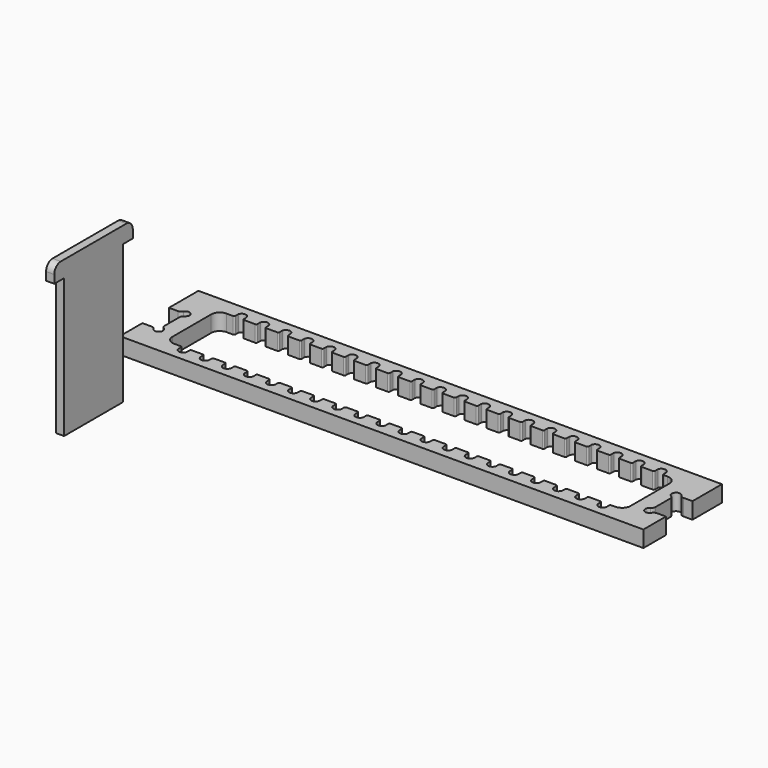
from build123d import *

# Parameters (mm, degrees)
F0_W      = 406.4
F0_H      = 76.2
F1_DEPTH  = 12.7
F3_DEPTH  = 25.4
F4_W      = 355.6
F4_H      = 50.8
F5_DEPTH  = 25.4
F6_R      = 6.604
F8_DEPTH  = 25.4
F9_W      = 6.35
F9_H      = 57.15
F10_DEPTH = 114.3
F11_W     = 76.2
F11_H     = 12.7
F12_DEPTH = 6.35
F13_R     = 6.35


with BuildPart() as f1:
    # F0 (on Top) → F1 (new body)
    with BuildSketch(Plane.XY):
        with Locations((203.2, 38.1)):
            Rectangle(F0_W, F0_H)
    extrude(amount=F1_DEPTH)

    # F2 (on face) → F3 (cut)
    with BuildSketch(Plane.XY.offset(12.7)):
        with BuildLine():
            Line((7.0545678642, 47.625), (0, 47.625))
            Line((0, 47.625), (0, 21.844))
            Line((0, 21.844), (7.0545678642, 21.844))
            ThreePointArc((7.0545678642, 21.844), (8.6575560358, 21.4096302052), (9.8219365582, 20.225372549))
            ThreePointArc((9.8219365582, 20.225372549), (15.0348665915, 19.5091334085), (14.318627451, 24.7220634418))
            ThreePointArc((14.318627451, 24.7220634418), (13.1343697948, 25.8864439642), (12.7, 27.4894321358))
            Line((12.7, 27.4894321358), (12.7, 41.9795678642))
            ThreePointArc((12.7, 41.9795678642), (13.1343697948, 43.5825560358), (14.318627451, 44.7469365582))
            ThreePointArc((14.318627451, 44.7469365582), (15.0348665915, 49.9598665915), (9.8219365582, 49.243627451))
            ThreePointArc((9.8219365582, 49.243627451), (8.6575560358, 48.0593697948), (7.0545678642, 47.625))
        make_face()
        with BuildLine():
            Line((393.7, 41.9795678642), (393.7, 27.4894321358))
            ThreePointArc((393.7, 27.4894321358), (393.2656302052, 25.8864439642), (392.081372549, 24.7220634418))
            ThreePointArc((392.081372549, 24.7220634418), (391.3651334085, 19.5091334085), (396.5780634418, 20.225372549))
            ThreePointArc((396.5780634418, 20.225372549), (397.7424439642, 21.4096302052), (399.3454321358, 21.844))
            Line((399.3454321358, 21.844), (406.4, 21.844))
            Line((406.4, 21.844), (406.4, 47.625))
            Line((406.4, 47.625), (399.3454321358, 47.625))
            ThreePointArc((399.3454321358, 47.625), (397.7424439642, 48.0593697948), (396.5780634418, 49.243627451))
            ThreePointArc((396.5780634418, 49.243627451), (391.3651334085, 49.9598665915), (392.081372549, 44.7469365582))
            ThreePointArc((392.081372549, 44.7469365582), (393.2656302052, 43.5825560358), (393.7, 41.9795678642))
        make_face()
    extrude(amount=-F3_DEPTH, mode=Mode.SUBTRACT)

    # F4 (on face) → F5 (cut)
    with BuildSketch(Plane.XY.offset(12.7)):
        with Locations((203.2, 38.1)):
            Rectangle(F4_W, F4_H)
    extrude(amount=-F5_DEPTH, mode=Mode.SUBTRACT)

    # F6
    f6_edges = [f1.edges().sort_by_distance(p)[0] for p in [
        (25.4, 63.5, 6.35),
        (381, 63.5, 6.35),
        (381, 12.7, 6.35),
        (25.4, 12.7, 6.35),
    ]]
    fillet(f6_edges, radius=F6_R)

    # F7 (on face) → F8 (cut)
    with BuildSketch(Plane.XY.offset(12.7)):
        with BuildLine():
            ThreePointArc((37.084, 12.7), (37.8024204897, 12.4024204897), (38.1, 11.684))
            Line((38.1, 11.684), (38.1, 8.89))
            ThreePointArc((38.1, 8.89), (41.7611020196, 6.3750480091), (44.704, 9.7019088405))
            Line((44.704, 9.7019088405), (44.704, 11.684))
            ThreePointArc((44.704, 11.684), (45.0015795103, 12.4024204897), (45.72, 12.7))
            Line((45.72, 12.7), (54.229, 12.7))
            Line((54.229, 12.7), (54.229, 16.938097775))
            Line((54.229, 16.938097775), (37.084, 16.938097775))
            Line((37.084, 16.938097775), (37.084, 12.7))
        make_face()
        with BuildLine():
            Line((71.374, 16.938097775), (54.229, 16.938097775))
            Line((54.229, 16.938097775), (54.229, 12.7))
            ThreePointArc((54.229, 12.7), (54.9474204897, 12.4024204897), (55.245, 11.684))
            Line((55.245, 11.684), (55.245, 8.89))
            ThreePointArc((55.245, 8.89), (58.9061020196, 6.3750480091), (61.849, 9.7019088405))
            Line((61.849, 9.7019088405), (61.849, 11.684))
            ThreePointArc((61.849, 11.684), (62.1465795103, 12.4024204897), (62.865, 12.7))
            Line((62.865, 12.7), (71.374, 12.7))
            Line((71.374, 12.7), (71.374, 16.938097775))
        make_face()
        with BuildLine():
            Line((88.519, 16.938097775), (71.374, 16.938097775))
            Line((71.374, 16.938097775), (71.374, 12.7))
            ThreePointArc((71.374, 12.7), (72.0924204897, 12.4024204897), (72.39, 11.684))
            Line((72.39, 11.684), (72.39, 8.89))
            ThreePointArc((72.39, 8.89), (76.0511020196, 6.3750480091), (78.994, 9.7019088405))
            Line((78.994, 9.7019088405), (78.994, 11.684))
            ThreePointArc((78.994, 11.684), (79.2915795103, 12.4024204897), (80.01, 12.7))
            Line((80.01, 12.7), (88.519, 12.7))
            Line((88.519, 12.7), (88.519, 16.938097775))
        make_face()
        with BuildLine():
            Line((105.664, 16.938097775), (88.519, 16.938097775))
            Line((88.519, 16.938097775), (88.519, 12.7))
            ThreePointArc((88.519, 12.7), (89.2374204897, 12.4024204897), (89.535, 11.684))
            Line((89.535, 11.684), (89.535, 8.89))
            ThreePointArc((89.535, 8.89), (93.1961020196, 6.3750480091), (96.139, 9.7019088405))
            Line((96.139, 9.7019088405), (96.139, 11.684))
            ThreePointArc((96.139, 11.684), (96.4365795103, 12.4024204897), (97.155, 12.7))
            Line((97.155, 12.7), (105.664, 12.7))
            Line((105.664, 12.7), (105.664, 16.938097775))
        make_face()
        with BuildLine():
            Line((122.809, 16.938097775), (105.664, 16.938097775))
            Line((105.664, 16.938097775), (105.664, 12.7))
            ThreePointArc((105.664, 12.7), (106.3824204897, 12.4024204897), (106.68, 11.684))
            Line((106.68, 11.684), (106.68, 8.89))
            ThreePointArc((106.68, 8.89), (110.3411020196, 6.3750480091), (113.284, 9.7019088405))
            Line((113.284, 9.7019088405), (113.284, 11.684))
            ThreePointArc((113.284, 11.684), (113.5815795103, 12.4024204897), (114.3, 12.7))
            Line((114.3, 12.7), (122.809, 12.7))
            Line((122.809, 12.7), (122.809, 16.938097775))
        make_face()
        with BuildLine():
            Line((139.954, 16.938097775), (122.809, 16.938097775))
            Line((122.809, 16.938097775), (122.809, 12.7))
            ThreePointArc((122.809, 12.7), (123.5274204897, 12.4024204897), (123.825, 11.684))
            Line((123.825, 11.684), (123.825, 8.89))
            ThreePointArc((123.825, 8.89), (127.4861020196, 6.3750480091), (130.429, 9.7019088405))
            Line((130.429, 9.7019088405), (130.429, 11.684))
            ThreePointArc((130.429, 11.684), (130.7265795103, 12.4024204897), (131.445, 12.7))
            Line((131.445, 12.7), (139.954, 12.7))
            Line((139.954, 12.7), (139.954, 16.938097775))
        make_face()
        with BuildLine():
            Line((157.099, 16.938097775), (139.954, 16.938097775))
            Line((139.954, 16.938097775), (139.954, 12.7))
            ThreePointArc((139.954, 12.7), (140.6724204897, 12.4024204897), (140.97, 11.684))
            Line((140.97, 11.684), (140.97, 8.89))
            ThreePointArc((140.97, 8.89), (144.6311020196, 6.3750480091), (147.574, 9.7019088405))
            Line((147.574, 9.7019088405), (147.574, 11.684))
            ThreePointArc((147.574, 11.684), (147.8715795103, 12.4024204897), (148.59, 12.7))
            Line((148.59, 12.7), (157.099, 12.7))
            Line((157.099, 12.7), (157.099, 16.938097775))
        make_face()
        with BuildLine():
            Line((174.244, 16.938097775), (157.099, 16.938097775))
            Line((157.099, 16.938097775), (157.099, 12.7))
            ThreePointArc((157.099, 12.7), (157.8174204897, 12.4024204897), (158.115, 11.684))
            Line((158.115, 11.684), (158.115, 8.89))
            ThreePointArc((158.115, 8.89), (161.7761020196, 6.3750480091), (164.719, 9.7019088405))
            Line((164.719, 9.7019088405), (164.719, 11.684))
            ThreePointArc((164.719, 11.684), (165.0165795103, 12.4024204897), (165.735, 12.7))
            Line((165.735, 12.7), (174.244, 12.7))
            Line((174.244, 12.7), (174.244, 16.938097775))
        make_face()
        with BuildLine():
            Line((191.389, 16.938097775), (174.244, 16.938097775))
            Line((174.244, 16.938097775), (174.244, 12.7))
            ThreePointArc((174.244, 12.7), (174.9624204897, 12.4024204897), (175.26, 11.684))
            Line((175.26, 11.684), (175.26, 8.89))
            ThreePointArc((175.26, 8.89), (178.9211020196, 6.3750480091), (181.864, 9.7019088405))
            Line((181.864, 9.7019088405), (181.864, 11.684))
            ThreePointArc((181.864, 11.684), (182.1615795103, 12.4024204897), (182.88, 12.7))
            Line((182.88, 12.7), (191.389, 12.7))
            Line((191.389, 12.7), (191.389, 16.938097775))
        make_face()
        with BuildLine():
            Line((208.534, 16.938097775), (191.389, 16.938097775))
            Line((191.389, 16.938097775), (191.389, 12.7))
            ThreePointArc((191.389, 12.7), (192.1074204897, 12.4024204897), (192.405, 11.684))
            Line((192.405, 11.684), (192.405, 8.89))
            ThreePointArc((192.405, 8.89), (196.0661020196, 6.3750480091), (199.009, 9.7019088405))
            Line((199.009, 9.7019088405), (199.009, 11.684))
            ThreePointArc((199.009, 11.684), (199.3065795103, 12.4024204897), (200.025, 12.7))
            Line((200.025, 12.7), (208.534, 12.7))
            Line((208.534, 12.7), (208.534, 16.938097775))
        make_face()
        with BuildLine():
            Line((225.679, 16.938097775), (208.534, 16.938097775))
            Line((208.534, 16.938097775), (208.534, 12.7))
            ThreePointArc((208.534, 12.7), (209.2524204897, 12.4024204897), (209.55, 11.684))
            Line((209.55, 11.684), (209.55, 8.89))
            ThreePointArc((209.55, 8.89), (213.2111020196, 6.3750480091), (216.154, 9.7019088405))
            Line((216.154, 9.7019088405), (216.154, 11.684))
            ThreePointArc((216.154, 11.684), (216.4515795103, 12.4024204897), (217.17, 12.7))
            Line((217.17, 12.7), (225.679, 12.7))
            Line((225.679, 12.7), (225.679, 16.938097775))
        make_face()
        with BuildLine():
            Line((242.824, 16.938097775), (225.679, 16.938097775))
            Line((225.679, 16.938097775), (225.679, 12.7))
            ThreePointArc((225.679, 12.7), (226.3974204897, 12.4024204897), (226.695, 11.684))
            Line((226.695, 11.684), (226.695, 8.89))
            ThreePointArc((226.695, 8.89), (230.3561020196, 6.3750480091), (233.299, 9.7019088405))
            Line((233.299, 9.7019088405), (233.299, 11.684))
            ThreePointArc((233.299, 11.684), (233.5965795103, 12.4024204897), (234.315, 12.7))
            Line((234.315, 12.7), (242.824, 12.7))
            Line((242.824, 12.7), (242.824, 16.938097775))
        make_face()
        with BuildLine():
            Line((259.969, 16.938097775), (242.824, 16.938097775))
            Line((242.824, 16.938097775), (242.824, 12.7))
            ThreePointArc((242.824, 12.7), (243.5424204897, 12.4024204897), (243.84, 11.684))
            Line((243.84, 11.684), (243.84, 8.89))
            ThreePointArc((243.84, 8.89), (247.5011020196, 6.3750480091), (250.444, 9.7019088405))
            Line((250.444, 9.7019088405), (250.444, 11.684))
            ThreePointArc((250.444, 11.684), (250.7415795103, 12.4024204897), (251.46, 12.7))
            Line((251.46, 12.7), (259.969, 12.7))
            Line((259.969, 12.7), (259.969, 16.938097775))
        make_face()
        with BuildLine():
            Line((277.114, 16.938097775), (259.969, 16.938097775))
            Line((259.969, 16.938097775), (259.969, 12.7))
            ThreePointArc((259.969, 12.7), (260.6874204897, 12.4024204897), (260.985, 11.684))
            Line((260.985, 11.684), (260.985, 8.89))
            ThreePointArc((260.985, 8.89), (264.6461020196, 6.3750480091), (267.589, 9.7019088405))
            Line((267.589, 9.7019088405), (267.589, 11.684))
            ThreePointArc((267.589, 11.684), (267.8865795103, 12.4024204897), (268.605, 12.7))
            Line((268.605, 12.7), (277.114, 12.7))
            Line((277.114, 12.7), (277.114, 16.938097775))
        make_face()
        with BuildLine():
            Line((294.259, 16.938097775), (277.114, 16.938097775))
            Line((277.114, 16.938097775), (277.114, 12.7))
            ThreePointArc((277.114, 12.7), (277.8324204897, 12.4024204897), (278.13, 11.684))
            Line((278.13, 11.684), (278.13, 8.89))
            ThreePointArc((278.13, 8.89), (281.7911020196, 6.3750480091), (284.734, 9.7019088405))
            Line((284.734, 9.7019088405), (284.734, 11.684))
            ThreePointArc((284.734, 11.684), (285.0315795103, 12.4024204897), (285.75, 12.7))
            Line((285.75, 12.7), (294.259, 12.7))
            Line((294.259, 12.7), (294.259, 16.938097775))
        make_face()
        with BuildLine():
            Line((311.404, 16.938097775), (294.259, 16.938097775))
            Line((294.259, 16.938097775), (294.259, 12.7))
            ThreePointArc((294.259, 12.7), (294.9774204897, 12.4024204897), (295.275, 11.684))
            Line((295.275, 11.684), (295.275, 8.89))
            ThreePointArc((295.275, 8.89), (298.9361020196, 6.3750480091), (301.879, 9.7019088405))
            Line((301.879, 9.7019088405), (301.879, 11.684))
            ThreePointArc((301.879, 11.684), (302.1765795103, 12.4024204897), (302.895, 12.7))
            Line((302.895, 12.7), (311.404, 12.7))
            Line((311.404, 12.7), (311.404, 16.938097775))
        make_face()
        with BuildLine():
            Line((328.549, 16.938097775), (311.404, 16.938097775))
            Line((311.404, 16.938097775), (311.404, 12.7))
            ThreePointArc((311.404, 12.7), (312.1224204897, 12.4024204897), (312.42, 11.684))
            Line((312.42, 11.684), (312.42, 8.89))
            ThreePointArc((312.42, 8.89), (316.0811020196, 6.3750480091), (319.024, 9.7019088405))
            Line((319.024, 9.7019088405), (319.024, 11.684))
            ThreePointArc((319.024, 11.684), (319.3215795103, 12.4024204897), (320.04, 12.7))
            Line((320.04, 12.7), (328.549, 12.7))
            Line((328.549, 12.7), (328.549, 16.938097775))
        make_face()
        with BuildLine():
            Line((345.694, 16.938097775), (328.549, 16.938097775))
            Line((328.549, 16.938097775), (328.549, 12.7))
            ThreePointArc((328.549, 12.7), (329.2674204897, 12.4024204897), (329.565, 11.684))
            Line((329.565, 11.684), (329.565, 8.89))
            ThreePointArc((329.565, 8.89), (333.2261020196, 6.3750480091), (336.169, 9.7019088405))
            Line((336.169, 9.7019088405), (336.169, 11.684))
            ThreePointArc((336.169, 11.684), (336.4665795103, 12.4024204897), (337.185, 12.7))
            Line((337.185, 12.7), (345.694, 12.7))
            Line((345.694, 12.7), (345.694, 16.938097775))
        make_face()
        with BuildLine():
            Line((362.839, 16.938097775), (345.694, 16.938097775))
            Line((345.694, 16.938097775), (345.694, 12.7))
            ThreePointArc((345.694, 12.7), (346.4124204897, 12.4024204897), (346.71, 11.684))
            Line((346.71, 11.684), (346.71, 8.89))
            ThreePointArc((346.71, 8.89), (350.3711020196, 6.3750480091), (353.314, 9.7019088405))
            Line((353.314, 9.7019088405), (353.314, 11.684))
            ThreePointArc((353.314, 11.684), (353.6115795103, 12.4024204897), (354.33, 12.7))
            Line((354.33, 12.7), (362.839, 12.7))
            Line((362.839, 12.7), (362.839, 16.938097775))
        make_face()
        with BuildLine():
            Line((374.396, 16.938097775), (362.839, 16.938097775))
            Line((362.839, 16.938097775), (362.839, 12.7))
            ThreePointArc((362.839, 12.7), (363.5574204897, 12.4024204897), (363.855, 11.684))
            Line((363.855, 11.684), (363.855, 8.89))
            ThreePointArc((363.855, 8.89), (367.5161020196, 6.3750480091), (370.459, 9.7019088405))
            Line((370.459, 9.7019088405), (370.459, 11.684))
            ThreePointArc((370.459, 11.684), (370.7565795103, 12.4024204897), (371.475, 12.7))
            Line((371.475, 12.7), (374.396, 12.7))
            Line((374.396, 12.7), (374.396, 16.938097775))
        make_face()
        with BuildLine():
            Line((277.114, 59.261902225), (294.259, 59.261902225))
            Line((294.259, 59.261902225), (294.259, 63.5))
            Line((294.259, 63.5), (285.75, 63.5))
            ThreePointArc((285.75, 63.5), (285.0315795103, 63.7975795103), (284.734, 64.516))
            Line((284.734, 64.516), (284.734, 66.4980911595))
            ThreePointArc((284.734, 66.4980911595), (281.7911020196, 69.8249519909), (278.13, 67.31))
            Line((278.13, 67.31), (278.13, 64.516))
            ThreePointArc((278.13, 64.516), (277.8324204897, 63.7975795103), (277.114, 63.5))
            Line((277.114, 63.5), (277.114, 59.261902225))
        make_face()
        with BuildLine():
            Line((294.259, 63.5), (294.259, 59.261902225))
            Line((294.259, 59.261902225), (311.404, 59.261902225))
            Line((311.404, 59.261902225), (311.404, 63.5))
            Line((311.404, 63.5), (302.895, 63.5))
            ThreePointArc((302.895, 63.5), (302.1765795103, 63.7975795103), (301.879, 64.516))
            Line((301.879, 64.516), (301.879, 66.4980911595))
            ThreePointArc((301.879, 66.4980911595), (298.9361020196, 69.8249519909), (295.275, 67.31))
            Line((295.275, 67.31), (295.275, 64.516))
            ThreePointArc((295.275, 64.516), (294.9774204897, 63.7975795103), (294.259, 63.5))
        make_face()
        with BuildLine():
            Line((259.969, 59.261902225), (277.114, 59.261902225))
            Line((277.114, 59.261902225), (277.114, 63.5))
            Line((277.114, 63.5), (268.605, 63.5))
            ThreePointArc((268.605, 63.5), (267.8865795103, 63.7975795103), (267.589, 64.516))
            Line((267.589, 64.516), (267.589, 66.4980911595))
            ThreePointArc((267.589, 66.4980911595), (264.6461020196, 69.8249519909), (260.985, 67.31))
            Line((260.985, 67.31), (260.985, 64.516))
            ThreePointArc((260.985, 64.516), (260.6874204897, 63.7975795103), (259.969, 63.5))
            Line((259.969, 63.5), (259.969, 59.261902225))
        make_face()
        with BuildLine():
            Line((311.404, 63.5), (311.404, 59.261902225))
            Line((311.404, 59.261902225), (328.549, 59.261902225))
            Line((328.549, 59.261902225), (328.549, 63.5))
            Line((328.549, 63.5), (320.04, 63.5))
            ThreePointArc((320.04, 63.5), (319.3215795103, 63.7975795103), (319.024, 64.516))
            Line((319.024, 64.516), (319.024, 66.4980911595))
            ThreePointArc((319.024, 66.4980911595), (316.0811020196, 69.8249519909), (312.42, 67.31))
            Line((312.42, 67.31), (312.42, 64.516))
            ThreePointArc((312.42, 64.516), (312.1224204897, 63.7975795103), (311.404, 63.5))
        make_face()
        with BuildLine():
            Line((242.824, 59.261902225), (259.969, 59.261902225))
            Line((259.969, 59.261902225), (259.969, 63.5))
            Line((259.969, 63.5), (251.46, 63.5))
            ThreePointArc((251.46, 63.5), (250.7415795103, 63.7975795103), (250.444, 64.516))
            Line((250.444, 64.516), (250.444, 66.4980911595))
            ThreePointArc((250.444, 66.4980911595), (247.5011020196, 69.8249519909), (243.84, 67.31))
            Line((243.84, 67.31), (243.84, 64.516))
            ThreePointArc((243.84, 64.516), (243.5424204897, 63.7975795103), (242.824, 63.5))
            Line((242.824, 63.5), (242.824, 59.261902225))
        make_face()
        with BuildLine():
            Line((328.549, 63.5), (328.549, 59.261902225))
            Line((328.549, 59.261902225), (345.694, 59.261902225))
            Line((345.694, 59.261902225), (345.694, 63.5))
            Line((345.694, 63.5), (337.185, 63.5))
            ThreePointArc((337.185, 63.5), (336.4665795103, 63.7975795103), (336.169, 64.516))
            Line((336.169, 64.516), (336.169, 66.4980911595))
            ThreePointArc((336.169, 66.4980911595), (333.2261020196, 69.8249519909), (329.565, 67.31))
            Line((329.565, 67.31), (329.565, 64.516))
            ThreePointArc((329.565, 64.516), (329.2674204897, 63.7975795103), (328.549, 63.5))
        make_face()
        with BuildLine():
            Line((225.679, 59.261902225), (242.824, 59.261902225))
            Line((242.824, 59.261902225), (242.824, 63.5))
            Line((242.824, 63.5), (234.315, 63.5))
            ThreePointArc((234.315, 63.5), (233.5965795103, 63.7975795103), (233.299, 64.516))
            Line((233.299, 64.516), (233.299, 66.4980911595))
            ThreePointArc((233.299, 66.4980911595), (230.3561020196, 69.8249519909), (226.695, 67.31))
            Line((226.695, 67.31), (226.695, 64.516))
            ThreePointArc((226.695, 64.516), (226.3974204897, 63.7975795103), (225.679, 63.5))
            Line((225.679, 63.5), (225.679, 59.261902225))
        make_face()
        with BuildLine():
            Line((345.694, 63.5), (345.694, 59.261902225))
            Line((345.694, 59.261902225), (362.839, 59.261902225))
            Line((362.839, 59.261902225), (362.839, 63.5))
            Line((362.839, 63.5), (354.33, 63.5))
            ThreePointArc((354.33, 63.5), (353.6115795103, 63.7975795103), (353.314, 64.516))
            Line((353.314, 64.516), (353.314, 66.4980911595))
            ThreePointArc((353.314, 66.4980911595), (350.3711020196, 69.8249519909), (346.71, 67.31))
            Line((346.71, 67.31), (346.71, 64.516))
            ThreePointArc((346.71, 64.516), (346.4124204897, 63.7975795103), (345.694, 63.5))
        make_face()
        with BuildLine():
            Line((208.534, 59.261902225), (225.679, 59.261902225))
            Line((225.679, 59.261902225), (225.679, 63.5))
            Line((225.679, 63.5), (217.17, 63.5))
            ThreePointArc((217.17, 63.5), (216.4515795103, 63.7975795103), (216.154, 64.516))
            Line((216.154, 64.516), (216.154, 66.4980911595))
            ThreePointArc((216.154, 66.4980911595), (213.2111020196, 69.8249519909), (209.55, 67.31))
            Line((209.55, 67.31), (209.55, 64.516))
            ThreePointArc((209.55, 64.516), (209.2524204897, 63.7975795103), (208.534, 63.5))
            Line((208.534, 63.5), (208.534, 59.261902225))
        make_face()
        with BuildLine():
            Line((362.839, 63.5), (362.839, 59.261902225))
            Line((362.839, 59.261902225), (374.396, 59.261902225))
            Line((374.396, 59.261902225), (374.396, 63.5))
            Line((374.396, 63.5), (371.475, 63.5))
            ThreePointArc((371.475, 63.5), (370.7565795103, 63.7975795103), (370.459, 64.516))
            Line((370.459, 64.516), (370.459, 66.4980911595))
            ThreePointArc((370.459, 66.4980911595), (367.5161020196, 69.8249519909), (363.855, 67.31))
            Line((363.855, 67.31), (363.855, 64.516))
            ThreePointArc((363.855, 64.516), (363.5574204897, 63.7975795103), (362.839, 63.5))
        make_face()
        with BuildLine():
            Line((191.389, 59.261902225), (208.534, 59.261902225))
            Line((208.534, 59.261902225), (208.534, 63.5))
            Line((208.534, 63.5), (200.025, 63.5))
            ThreePointArc((200.025, 63.5), (199.3065795103, 63.7975795103), (199.009, 64.516))
            Line((199.009, 64.516), (199.009, 66.4980911595))
            ThreePointArc((199.009, 66.4980911595), (196.0661020196, 69.8249519909), (192.405, 67.31))
            Line((192.405, 67.31), (192.405, 64.516))
            ThreePointArc((192.405, 64.516), (192.1074204897, 63.7975795103), (191.389, 63.5))
            Line((191.389, 63.5), (191.389, 59.261902225))
        make_face()
        with BuildLine():
            Line((174.244, 59.261902225), (191.389, 59.261902225))
            Line((191.389, 59.261902225), (191.389, 63.5))
            Line((191.389, 63.5), (182.88, 63.5))
            ThreePointArc((182.88, 63.5), (182.1615795103, 63.7975795103), (181.864, 64.516))
            Line((181.864, 64.516), (181.864, 66.4980911595))
            ThreePointArc((181.864, 66.4980911595), (178.9211020196, 69.8249519909), (175.26, 67.31))
            Line((175.26, 67.31), (175.26, 64.516))
            ThreePointArc((175.26, 64.516), (174.9624204897, 63.7975795103), (174.244, 63.5))
            Line((174.244, 63.5), (174.244, 59.261902225))
        make_face()
        with BuildLine():
            Line((157.099, 59.261902225), (174.244, 59.261902225))
            Line((174.244, 59.261902225), (174.244, 63.5))
            Line((174.244, 63.5), (165.735, 63.5))
            ThreePointArc((165.735, 63.5), (165.0165795103, 63.7975795103), (164.719, 64.516))
            Line((164.719, 64.516), (164.719, 66.4980911595))
            ThreePointArc((164.719, 66.4980911595), (161.7761020196, 69.8249519909), (158.115, 67.31))
            Line((158.115, 67.31), (158.115, 64.516))
            ThreePointArc((158.115, 64.516), (157.8174204897, 63.7975795103), (157.099, 63.5))
            Line((157.099, 63.5), (157.099, 59.261902225))
        make_face()
        with BuildLine():
            Line((139.954, 59.261902225), (157.099, 59.261902225))
            Line((157.099, 59.261902225), (157.099, 63.5))
            Line((157.099, 63.5), (148.59, 63.5))
            ThreePointArc((148.59, 63.5), (147.8715795103, 63.7975795103), (147.574, 64.516))
            Line((147.574, 64.516), (147.574, 66.4980911595))
            ThreePointArc((147.574, 66.4980911595), (144.6311020196, 69.8249519909), (140.97, 67.31))
            Line((140.97, 67.31), (140.97, 64.516))
            ThreePointArc((140.97, 64.516), (140.6724204897, 63.7975795103), (139.954, 63.5))
            Line((139.954, 63.5), (139.954, 59.261902225))
        make_face()
        with BuildLine():
            Line((122.809, 59.261902225), (139.954, 59.261902225))
            Line((139.954, 59.261902225), (139.954, 63.5))
            Line((139.954, 63.5), (131.445, 63.5))
            ThreePointArc((131.445, 63.5), (130.7265795103, 63.7975795103), (130.429, 64.516))
            Line((130.429, 64.516), (130.429, 66.4980911595))
            ThreePointArc((130.429, 66.4980911595), (127.4861020196, 69.8249519909), (123.825, 67.31))
            Line((123.825, 67.31), (123.825, 64.516))
            ThreePointArc((123.825, 64.516), (123.5274204897, 63.7975795103), (122.809, 63.5))
            Line((122.809, 63.5), (122.809, 59.261902225))
        make_face()
        with BuildLine():
            Line((105.664, 59.261902225), (122.809, 59.261902225))
            Line((122.809, 59.261902225), (122.809, 63.5))
            Line((122.809, 63.5), (114.3, 63.5))
            ThreePointArc((114.3, 63.5), (113.5815795103, 63.7975795103), (113.284, 64.516))
            Line((113.284, 64.516), (113.284, 66.4980911595))
            ThreePointArc((113.284, 66.4980911595), (110.3411020196, 69.8249519909), (106.68, 67.31))
            Line((106.68, 67.31), (106.68, 64.516))
            ThreePointArc((106.68, 64.516), (106.3824204897, 63.7975795103), (105.664, 63.5))
            Line((105.664, 63.5), (105.664, 59.261902225))
        make_face()
        with BuildLine():
            Line((88.519, 59.261902225), (105.664, 59.261902225))
            Line((105.664, 59.261902225), (105.664, 63.5))
            Line((105.664, 63.5), (97.155, 63.5))
            ThreePointArc((97.155, 63.5), (96.4365795103, 63.7975795103), (96.139, 64.516))
            Line((96.139, 64.516), (96.139, 66.4980911595))
            ThreePointArc((96.139, 66.4980911595), (93.1961020196, 69.8249519909), (89.535, 67.31))
            Line((89.535, 67.31), (89.535, 64.516))
            ThreePointArc((89.535, 64.516), (89.2374204897, 63.7975795103), (88.519, 63.5))
            Line((88.519, 63.5), (88.519, 59.261902225))
        make_face()
        with BuildLine():
            Line((71.374, 59.261902225), (88.519, 59.261902225))
            Line((88.519, 59.261902225), (88.519, 63.5))
            Line((88.519, 63.5), (80.01, 63.5))
            ThreePointArc((80.01, 63.5), (79.2915795103, 63.7975795103), (78.994, 64.516))
            Line((78.994, 64.516), (78.994, 66.4980911595))
            ThreePointArc((78.994, 66.4980911595), (76.0511020196, 69.8249519909), (72.39, 67.31))
            Line((72.39, 67.31), (72.39, 64.516))
            ThreePointArc((72.39, 64.516), (72.0924204897, 63.7975795103), (71.374, 63.5))
            Line((71.374, 63.5), (71.374, 59.261902225))
        make_face()
        with BuildLine():
            Line((54.229, 59.261902225), (71.374, 59.261902225))
            Line((71.374, 59.261902225), (71.374, 63.5))
            Line((71.374, 63.5), (62.865, 63.5))
            ThreePointArc((62.865, 63.5), (62.1465795103, 63.7975795103), (61.849, 64.516))
            Line((61.849, 64.516), (61.849, 66.4980911595))
            ThreePointArc((61.849, 66.4980911595), (58.9061020196, 69.8249519909), (55.245, 67.31))
            Line((55.245, 67.31), (55.245, 64.516))
            ThreePointArc((55.245, 64.516), (54.9474204897, 63.7975795103), (54.229, 63.5))
            Line((54.229, 63.5), (54.229, 59.261902225))
        make_face()
        with BuildLine():
            Line((37.084, 59.261902225), (54.229, 59.261902225))
            Line((54.229, 59.261902225), (54.229, 63.5))
            Line((54.229, 63.5), (45.72, 63.5))
            ThreePointArc((45.72, 63.5), (45.0015795103, 63.7975795103), (44.704, 64.516))
            Line((44.704, 64.516), (44.704, 66.4980911595))
            ThreePointArc((44.704, 66.4980911595), (41.7611020196, 69.8249519909), (38.1, 67.31))
            Line((38.1, 67.31), (38.1, 64.516))
            ThreePointArc((38.1, 64.516), (37.8024204897, 63.7975795103), (37.084, 63.5))
            Line((37.084, 63.5), (37.084, 59.261902225))
        make_face()
    extrude(amount=-F8_DEPTH, mode=Mode.SUBTRACT)


with BuildPart() as f10:
    # F9 (on Top) → F10 (new body)
    with BuildSketch(Plane.XY):
        with Locations((37.1706395328, -75.9998963952)):
            Rectangle(F9_W, F9_H)
    extrude(amount=F10_DEPTH)

    # F11 (on face) → F12 (join)
    with BuildSketch(Plane.YZ.offset(40.3456395328)):
        with Locations((-75.9998963952, 114.3)):
            Rectangle(F11_W, F11_H)
    extrude(amount=-F12_DEPTH)

    # F13
    f13_edges = [f10.edges().sort_by_distance(p)[0] for p in [
        (37.17064, -37.899896, 120.65),
        (37.17064, -114.099896, 120.65),
    ]]
    fillet(f13_edges, radius=F13_R)


solid = Compound([f1.part, f10.part])
